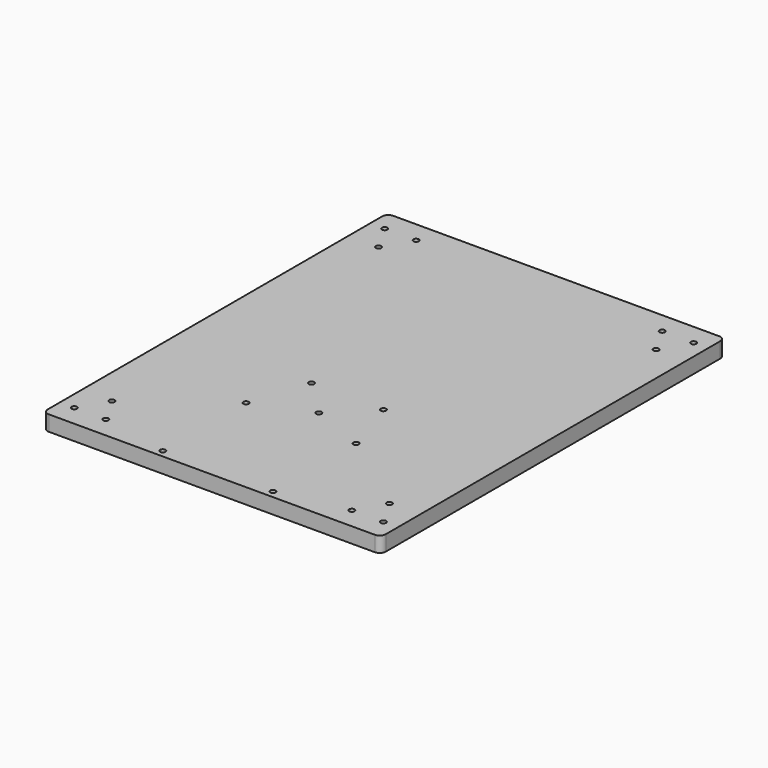
from build123d import *

# Parameters (mm, degrees)
F0_W     = 279.4
F0_H     = 355.6
F0_R     = 2.25
F1_DEPTH = 12.7
F2_R     = 5


with BuildPart() as f1:
    # F0 (on Top) → F1 (new body)
    with BuildSketch(Plane.XY):
        Rectangle(F0_W, F0_H)
        with Locations((-127.690381, -160.3)):
            Circle(F0_R, mode=Mode.SUBTRACT)
        with Locations((-114.7, -137.8)):
            Circle(F0_R, mode=Mode.SUBTRACT)
        with Locations((-101.709619, -160.3)):
            Circle(F0_R, mode=Mode.SUBTRACT)
        with Locations((-45.5, -171.65)):
            Circle(F0_R, mode=Mode.SUBTRACT)
        with Locations((-45.5, -85.65)):
            Circle(F0_R, mode=Mode.SUBTRACT)
        with Locations((-29.75, -37.8)):
            Circle(F0_R, mode=Mode.SUBTRACT)
        with Locations((45.5, -171.65)):
            Circle(F0_R, mode=Mode.SUBTRACT)
        with Locations((101.709619, -160.3)):
            Circle(F0_R, mode=Mode.SUBTRACT)
        with Locations((127.690381, -160.3)):
            Circle(F0_R, mode=Mode.SUBTRACT)
        with Locations((114.7, -137.8)):
            Circle(F0_R, mode=Mode.SUBTRACT)
        with Locations((0, -67.3)):
            Circle(F0_R, mode=Mode.SUBTRACT)
        with Locations((45.5, -85.65)):
            Circle(F0_R, mode=Mode.SUBTRACT)
        with Locations((29.75, -37.8)):
            Circle(F0_R, mode=Mode.SUBTRACT)
        with Locations((-114.7, 137.8)):
            Circle(F0_R, mode=Mode.SUBTRACT)
        with Locations((-127.690381, 160.3)):
            Circle(F0_R, mode=Mode.SUBTRACT)
        with Locations((-101.709619, 160.3)):
            Circle(F0_R, mode=Mode.SUBTRACT)
        with Locations((101.709619, 160.3)):
            Circle(F0_R, mode=Mode.SUBTRACT)
        with Locations((114.7, 137.8)):
            Circle(F0_R, mode=Mode.SUBTRACT)
        with Locations((127.690381, 160.3)):
            Circle(F0_R, mode=Mode.SUBTRACT)
    extrude(amount=F1_DEPTH)

    # F2
    f2_edges = [f1.edges().sort_by_distance(p)[0] for p in [
        (-139.7, -177.8, 6.35),
        (139.7, -177.8, 6.35),
        (139.7, 177.8, 6.35),
        (-139.7, 177.8, 6.35),
    ]]
    fillet(f2_edges, radius=F2_R)


solid = f1.part
